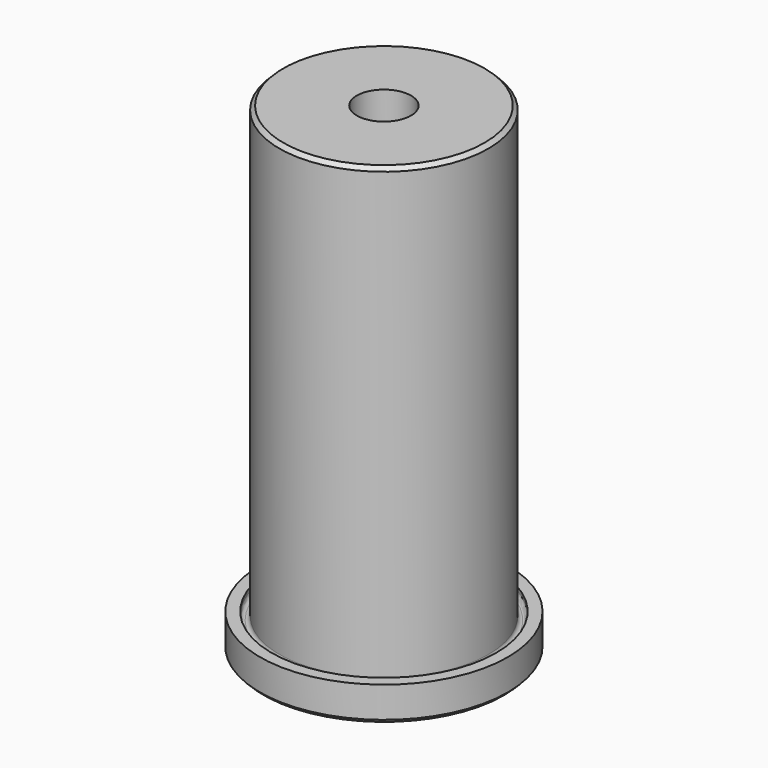
from build123d import *

# Parameters (mm, degrees)
F3_DEPTH = 57


with BuildPart() as f1:
    # F0 (on Front) → F1 (revolve)
    with BuildSketch(Plane.XZ):
        with BuildLine():
            Line((0, 57), (0, 0))
            Line((0, 0), (15.5, 0))
            Line((15.5, 0), (16, 0.5))
            Line((16, 0.5), (16, 4.5))
            Line((16, 4.5), (14.5, 4.5))
            Line((14.5, 4.5), (14.5, 4))
            ThreePointArc((14.5, 4), (14.353553, 3.646447), (14, 3.5))
            ThreePointArc((14, 3.5), (13.646447, 3.646447), (13.5, 4))
            Line((13.5, 4), (13.5, 61.5))
            Line((13.5, 61.5), (13, 62))
            Line((13, 62), (3.5, 62))
            Line((3.5, 62), (3.5, 57))
            Line((3.5, 57), (0, 57))
        make_face()
    revolve(axis=Axis((0, 0, 28.5), (0, 0, -1)))

    # F2 (on face) → F3 (cut)
    with BuildSketch(Plane(origin=(0, 0, 0), x_dir=(1, 0, 0), z_dir=(0, 0, -1))):
        Polygon((3.319764, -5.75), (6.639528, 0), (3.319764, 5.75), (-3.319764, 5.75), (-6.639528, 0), (-3.319764, -5.75), align=None)
    extrude(amount=-F3_DEPTH, mode=Mode.SUBTRACT)


solid = f1.part
